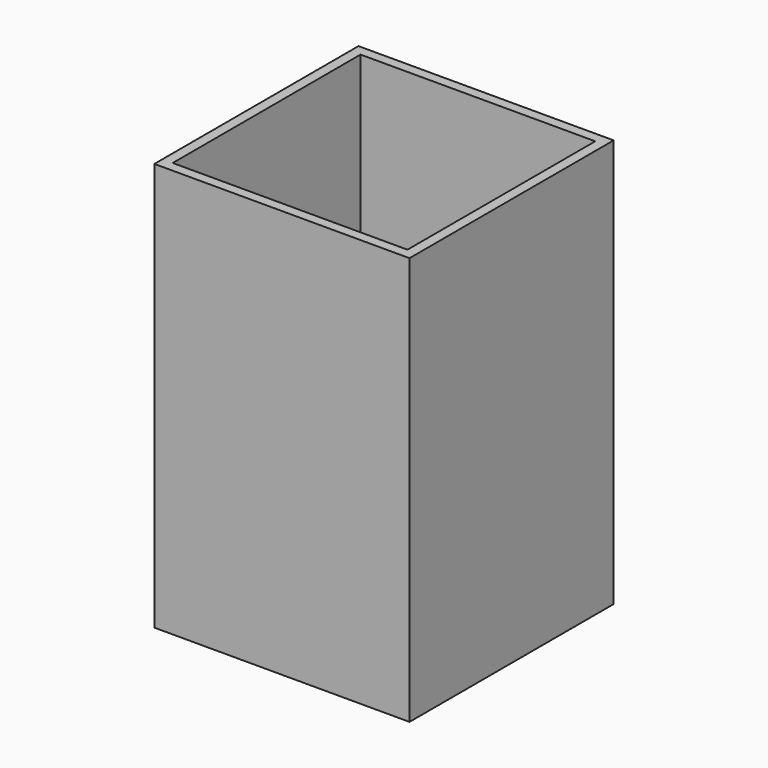
from build123d import *

# Parameters (mm, degrees)
BOX001_W     = 46
BOX001_H     = 46
BOX001_DEPTH = 80
BOX_W        = 50
BOX_H        = 50
BOX_DEPTH    = 80


with BuildPart() as cub001:
    # Box001 → Box001 (new body)
    with BuildSketch(Plane(origin=(2, 2, 2), x_dir=(1, 0, 0), z_dir=(0, 0, 1))):
        with Locations((23, 23)):
            Rectangle(BOX001_W, BOX001_H)
    extrude(amount=BOX001_DEPTH)


with BuildPart() as cut:
    # Box → Box (new body)
    with BuildSketch(Plane.XY):
        with Locations((25, 25)):
            Rectangle(BOX_W, BOX_H)
    extrude(amount=BOX_DEPTH)

    # Cut: cut Cub001
    add(cub001.part, mode=Mode.SUBTRACT)


solid = cut.part
